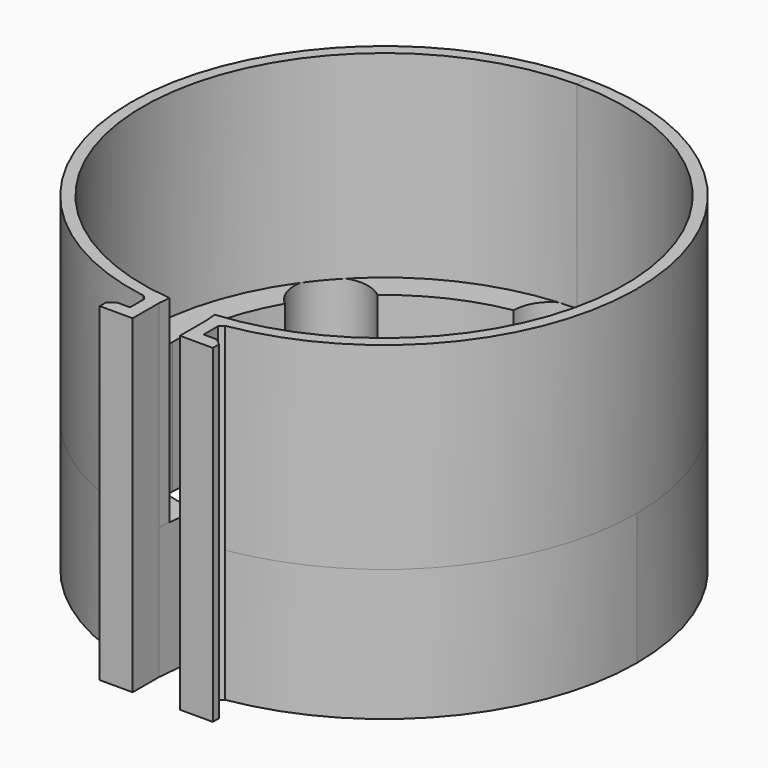
from build123d import *

# Parameters (mm, degrees)
PAD015_DEPTH = 20
PAD016_DEPTH = 30
PAD017_DEPTH = 20
PAD018_DEPTH = 30
PAD019_DEPTH = 30
PAD020_DEPTH = 20


with BuildPart() as part:
    # Sketch024 → Pad015 (new body)
    with BuildSketch(Plane.XY):
        with BuildLine():
            ThreePointArc((0, 38.4), (-27.1529, 27.1529), (-38.4, 0))
            Line((-38.4, 0), (-32.1, 0))
            ThreePointArc((-27.838774, 15.981636), (-31.016404, 8.269987), (-32.1, 0))
            ThreePointArc((-20.653618, 24.573116), (-28.541936, 23.869954), (-27.838774, 15.981636))
            ThreePointArc((-5.6, 31.607752), (-13.589873, 29.081358), (-20.653618, 24.573116))
            ThreePointArc((0, 37.207752), (-3.959798, 35.56755), (-5.6, 31.607752))
            Line((0, 38.4), (0, 37.207752))
        make_face()
    pad015 = extrude(amount=-PAD015_DEPTH)

    # Sketch025 → Pad016 (join)
    with BuildSketch(Plane.XY):
        with BuildLine():
            ThreePointArc((-1.8e-05, 36.6), (-25.880117, 25.880104), (-36.6, 0))
            Line((-36.6, 0), (-38.4, 0))
            ThreePointArc((0, 38.4), (-27.152903, 27.152903), (-38.4, 0))
            Line((0, 38.4), (-1.8e-05, 36.6))
        make_face()
    pad016 = extrude(amount=PAD016_DEPTH)

    # Sketch026 → Pad017 (join)
    with BuildSketch(Plane.XY):
        with BuildLine():
            ThreePointArc((-32.1, 0), (-23.735101, -21.611455), (-3, -31.959506))
            Line((-3, -31.959506), (-3.588785, -38.231932))
            ThreePointArc((-38.4, 0), (-28.393391, -25.852956), (-3.588785, -38.231932))
            Line((-38.4, 0), (-32.1, 0))
        make_face()
    pad017 = extrude(amount=-PAD017_DEPTH)

    # Sketch027 → Pad018 (join)
    with BuildSketch(Plane.XY):
        with BuildLine():
            ThreePointArc((0, 38.4), (-38.35796, 1.796359), (-3.588785, -38.231932))
            Line((-3.420561, -36.43981), (-3.588785, -38.231932))
            ThreePointArc((-1.8e-05, 36.6), (-36.559931, 1.712146), (-3.420561, -36.43981))
            Line((0, 38.4), (-1.8e-05, 36.6))
        make_face()
    pad018 = extrude(amount=PAD018_DEPTH)

    # Mirrored003: Pad018, Pad017, Pad016, Pad015 across Sketch027 V_Axis
    add(pad018.mirror(Plane(origin=(0, 0, 0), x_dir=(0, 0, 1), z_dir=(1, 0, 0))))
    add(pad017.mirror(Plane(origin=(0, 0, 0), x_dir=(0, 0, 1), z_dir=(1, 0, 0))))
    add(pad016.mirror(Plane(origin=(0, 0, 0), x_dir=(0, 0, 1), z_dir=(1, 0, 0))))
    add(pad015.mirror(Plane(origin=(0, 0, 0), x_dir=(0, 0, 1), z_dir=(1, 0, 0))))

    # Sketch028 → Pad019 (join)
    with BuildSketch(Plane.XY):
        with BuildLine():
            ThreePointArc((-6.188785, -37.898007), (-4.891635, -38.087162), (-3.588785, -38.231932))
            Line((-3.588785, -38.231932), (-3.588785, -43.231932))
            Line((-3.588785, -43.231932), (-8.588785, -43.231932))
            Line((-8.588785, -43.231932), (-8.588785, -42.071032))
            Line((-8.588785, -42.071032), (-7.588785, -41.231932))
            Line((-7.588785, -41.231932), (-5.588785, -41.231932))
            Line((-5.588785, -41.231932), (-5.588785, -38.498007))
            Line((-5.588785, -38.498007), (-6.188785, -37.898007))
        make_face()
    pad019 = extrude(amount=PAD019_DEPTH)

    # Sketch028 → Pad020 (join)
    with BuildSketch(Plane.XY):
        with BuildLine():
            ThreePointArc((-6.188785, -37.898007), (-4.891635, -38.087162), (-3.588785, -38.231932))
            Line((-3.588785, -38.231932), (-3.588785, -43.231932))
            Line((-3.588785, -43.231932), (-8.588785, -43.231932))
            Line((-8.588785, -43.231932), (-8.588785, -42.071032))
            Line((-8.588785, -42.071032), (-7.588785, -41.231932))
            Line((-7.588785, -41.231932), (-5.588785, -41.231932))
            Line((-5.588785, -41.231932), (-5.588785, -38.498007))
            Line((-5.588785, -38.498007), (-6.188785, -37.898007))
        make_face()
    pad020 = extrude(amount=-PAD020_DEPTH)

    # Mirrored004: Pad019, Pad020 across Sketch028 V_Axis
    add(pad019.mirror(Plane(origin=(0, 0, 0), x_dir=(0, 0, 1), z_dir=(1, 0, 0))))
    add(pad020.mirror(Plane(origin=(0, 0, 0), x_dir=(0, 0, 1), z_dir=(1, 0, 0))))


with BuildPart() as part_1:
    # Body020 placement: moved
    add(part.part.moved(Location((127, 0, 0))))


solid = part_1.part
